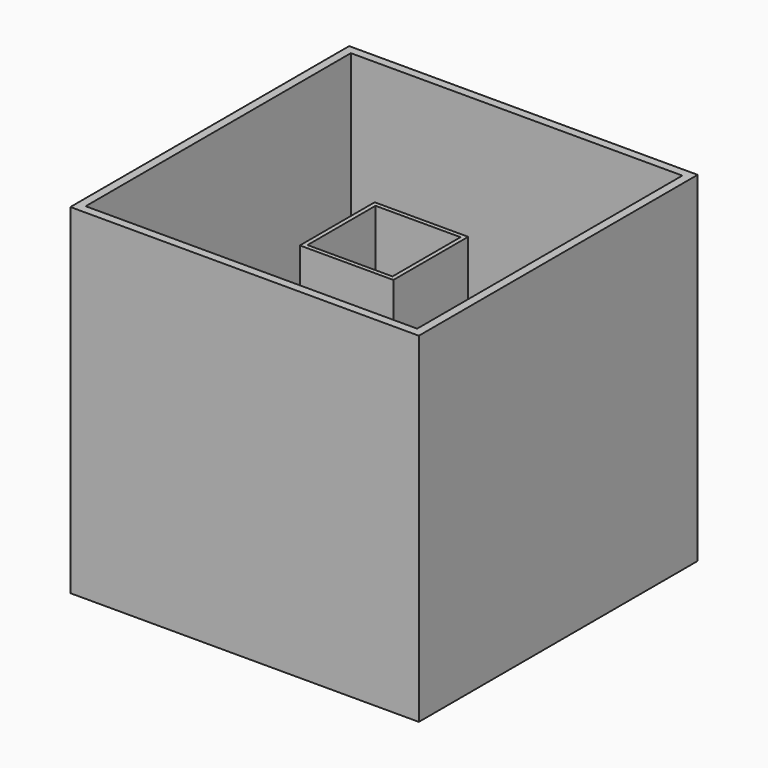
from build123d import *

# Parameters (mm, degrees)
F0_W      = 205
F0_H      = 205
F0_W_2    = 195
F0_H_2    = 195
F1_DEPTH  = 200
F0_R      = 1.5
F0_W_3    = 55
F0_H_3    = 55
F2_DEPTH  = 3
F0_W_4    = 49
F0_H_4    = 49
F3_DEPTH  = 24
F4_W      = 46
F4_H      = 14
F5_DEPTH  = 60
F6_W      = 46
F6_H      = 14
F7_DEPTH  = 60
F8_W      = 49
F8_H      = 49
F9_DEPTH  = 4
F10_W     = 55
F10_H     = 55
F10_W_2   = 50
F10_H_2   = 50
F11_DEPTH = 150


with BuildPart() as f1:
    # F0 (on Top) → F1 (new body)
    with BuildSketch(Plane.XY):
        Rectangle(F0_W, F0_H)
        Rectangle(F0_W_2, F0_H_2, mode=Mode.SUBTRACT)
    extrude(amount=F1_DEPTH)

    # F0 (on Top) → F2 (join)
    with BuildSketch(Plane.XY):
        Rectangle(F0_W_2, F0_H_2)
        with Locations((-95.5, -95.5)):
            Circle(F0_R, mode=Mode.SUBTRACT)
        with Locations((-10, -48.9040691386)):
            Circle(F0_R, mode=Mode.SUBTRACT)
        with Locations((-48.9040691386, -10)):
            Circle(F0_R, mode=Mode.SUBTRACT)
        with Locations((95.5, -95.5)):
            Circle(F0_R, mode=Mode.SUBTRACT)
        with Locations((10, -48.9040691386)):
            Circle(F0_R, mode=Mode.SUBTRACT)
        with Locations((48.9040691386, -10)):
            Circle(F0_R, mode=Mode.SUBTRACT)
        with Locations((-48.9040691386, 10)):
            Circle(F0_R, mode=Mode.SUBTRACT)
        with Locations((-10, 48.9040691386)):
            Circle(F0_R, mode=Mode.SUBTRACT)
        with Locations((-95.5, 95.5)):
            Circle(F0_R, mode=Mode.SUBTRACT)
        Rectangle(F0_W_3, F0_H_3, mode=Mode.SUBTRACT)
        with Locations((48.9040691386, 10)):
            Circle(F0_R, mode=Mode.SUBTRACT)
        with Locations((10, 48.9040691386)):
            Circle(F0_R, mode=Mode.SUBTRACT)
        with Locations((95.5, 95.5)):
            Circle(F0_R, mode=Mode.SUBTRACT)
    extrude(amount=F2_DEPTH)

    # F0 (on Top) → F3 (join)
    with BuildSketch(Plane.XY):
        Rectangle(F0_W_3, F0_H_3)
        Rectangle(F0_W_4, F0_H_4, mode=Mode.SUBTRACT)
    extrude(amount=F3_DEPTH)

    # F4 (on face) → F5 (cut)
    with BuildSketch(Plane(origin=(-27.5, 0, 0), x_dir=(0, -1, 0), z_dir=(-1, 0, 0))):
        with Locations((0, 13.2578094924)):
            Rectangle(F4_W, F4_H)
    extrude(amount=-F5_DEPTH, mode=Mode.SUBTRACT)

    # F6 (on face) → F7 (cut)
    with BuildSketch(Plane(origin=(0, 27.5, 0), x_dir=(-1, 0, 0), z_dir=(0, 1, 0))):
        with Locations((0, 13.5)):
            Rectangle(F6_W, F6_H)
    extrude(amount=-F7_DEPTH, mode=Mode.SUBTRACT)

    # F8 (on face) → F9 (join)
    with BuildSketch(Plane.XY.offset(24)):
        Rectangle(F8_W, F8_H)
    extrude(amount=-F9_DEPTH)

    # F10 (on face) → F11 (join)
    with BuildSketch(Plane.XY.offset(24)):
        Rectangle(F10_W, F10_H)
        Rectangle(F10_W_2, F10_H_2, mode=Mode.SUBTRACT)
    extrude(amount=F11_DEPTH)


solid = f1.part
